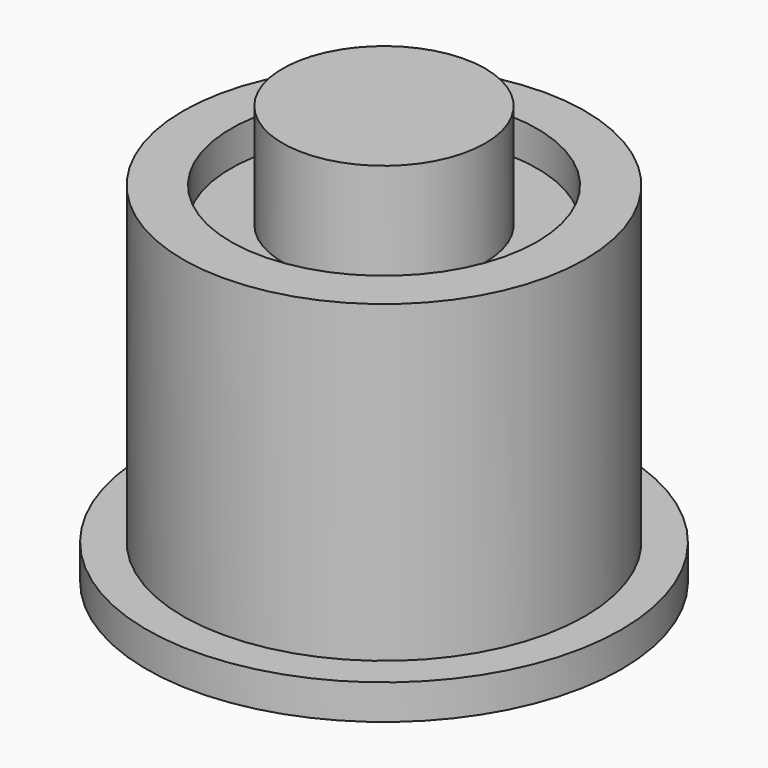
from build123d import *

# Parameters (mm, degrees)
F0_R     = 170.014979
F0_R_2   = 143.979715
F1_DEPTH = 25
F0_R_3   = 109.697428
F2_DEPTH = 250
F0_R_4   = 72.544287
F3_DEPTH = 300
F0_R_5   = 88.499419
F4_DEPTH = 25
F7_R     = 109.697428
F7_R_2   = 72.544287
F8_R     = 109.697428
F8_R_2   = 72.544287
F9_DEPTH = 25


with BuildPart() as f1:
    # F0 (on Top) → F1 (new body)
    with BuildSketch(Plane.XY):
        Circle(F0_R)
        Circle(F0_R_2, mode=Mode.SUBTRACT)
    extrude(amount=F1_DEPTH)

    # F0 (on Top) → F2 (join)
    with BuildSketch(Plane.XY):
        Circle(F0_R_2)
        Circle(F0_R_3, mode=Mode.SUBTRACT)
    extrude(amount=F2_DEPTH)


with BuildPart() as f3:
    # F0 (on Top) → F3 (new body)
    with BuildSketch(Plane.XY):
        Circle(F0_R_4)
    extrude(amount=F3_DEPTH)

    # F0 (on Top) → F4 (join)
    with BuildSketch(Plane.XY):
        Circle(F0_R_5)
        Circle(F0_R_4, mode=Mode.SUBTRACT)
    extrude(amount=F4_DEPTH)


with BuildPart() as f9:
    # F7 (on offset) + F8 (on offset) → F9 (new body)
    with BuildSketch(Plane.XY.offset(125)):
        with Locations((0.242331, 0.242329)):
            Circle(F7_R)
        with Locations((0.242331, 0.242329)):
            Circle(F7_R_2, mode=Mode.SUBTRACT)
    with BuildSketch(Plane.XY.offset(200)):
        Circle(F8_R)
        Circle(F8_R_2, mode=Mode.SUBTRACT)
    extrude(amount=F9_DEPTH)


solid = Compound([f1.part, f3.part, f9.part])
